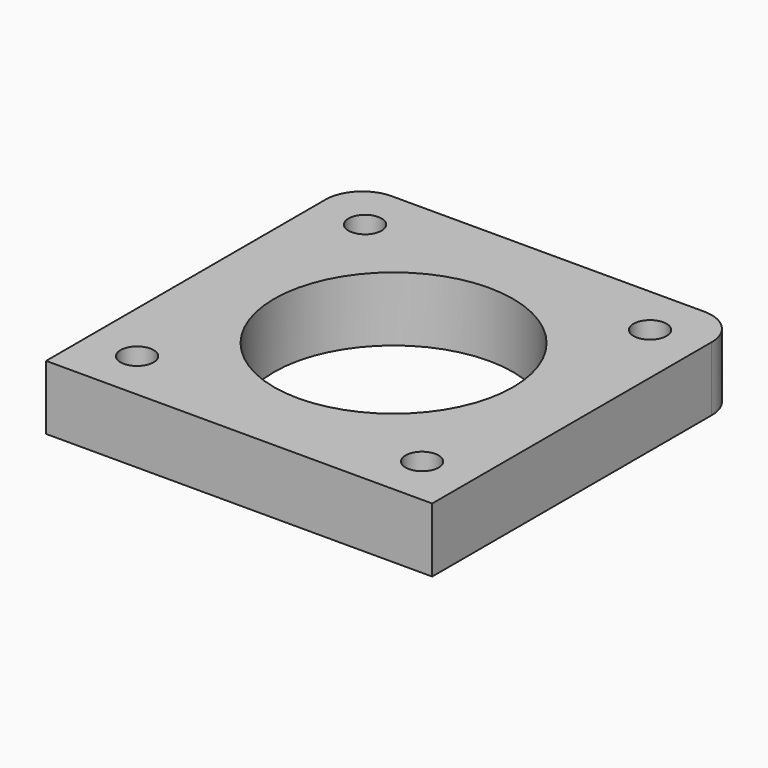
from build123d import *

# Parameters (mm, degrees)
CYLINDER001_R     = 1.8
CYLINDER001_DEPTH = 20
ARRAY_X_COUNT     = 2
ARRAY_X_PITCH     = 31
ARRAY_Y_COUNT     = 2
ARRAY_Y_PITCH     = 31
CYLINDER_R        = 13
CYLINDER_DEPTH    = 20
BOX_W             = 42
BOX_H             = 42
BOX_DEPTH         = 7
FILLET001_R       = 4


with BuildPart() as motor_attachment_hole_array:
    # Cylinder001 → Cylinder001 (new body)
    with BuildSketch(Plane(origin=(-15.5, -15.5, 0), x_dir=(1, 0, 0), z_dir=(0, 0, 1))):
        Circle(CYLINDER001_R)
    extrude(amount=CYLINDER001_DEPTH)

    # Array X: motor attachment hole array ×2


with BuildPart() as motor_attachment_hole_array_1:
    add(motor_attachment_hole_array.part)
    with Locations(*[(i * ARRAY_X_PITCH, 0, 0) for i in range(1, ARRAY_X_COUNT)]):
        add(motor_attachment_hole_array.part)

    # Array Y: motor attachment hole array ×2


with BuildPart() as motor_attachment_hole_array_2:
    add(motor_attachment_hole_array_1.part)
    with Locations(*[(0, i * ARRAY_Y_PITCH, 0) for i in range(1, ARRAY_Y_COUNT)]):
        add(motor_attachment_hole_array_1.part)


with BuildPart() as fusion001:
    # Cylinder → Cylinder (new body)
    with BuildSketch(Plane.XY):
        Circle(CYLINDER_R)
    extrude(amount=CYLINDER_DEPTH)

    # Fusion001: union motor attachment hole array
    add(motor_attachment_hole_array_2.part)


with BuildPart() as fusion001_1:
    # Fusion001 placement: moved
    add(fusion001.part.moved(Location((0, 0, -5))))


with BuildPart() as motor_side_fillet:
    # Box → Box (new body)
    with BuildSketch(Plane(origin=(-21, -21, -3), x_dir=(1, 0, 0), z_dir=(0, 0, 1))):
        with Locations((21, 21)):
            Rectangle(BOX_W, BOX_H)
    extrude(amount=BOX_DEPTH)

    # Cut002: cut Fusion001
    add(fusion001_1.part, mode=Mode.SUBTRACT)

    # Fillet001
    fillet001_edges = [motor_side_fillet.edges().sort_by_distance(p)[0] for p in [
        (-21, 21, 0.5),
        (21, 21, 0.5),
    ]]
    fillet(fillet001_edges, radius=FILLET001_R)


solid = motor_side_fillet.part
